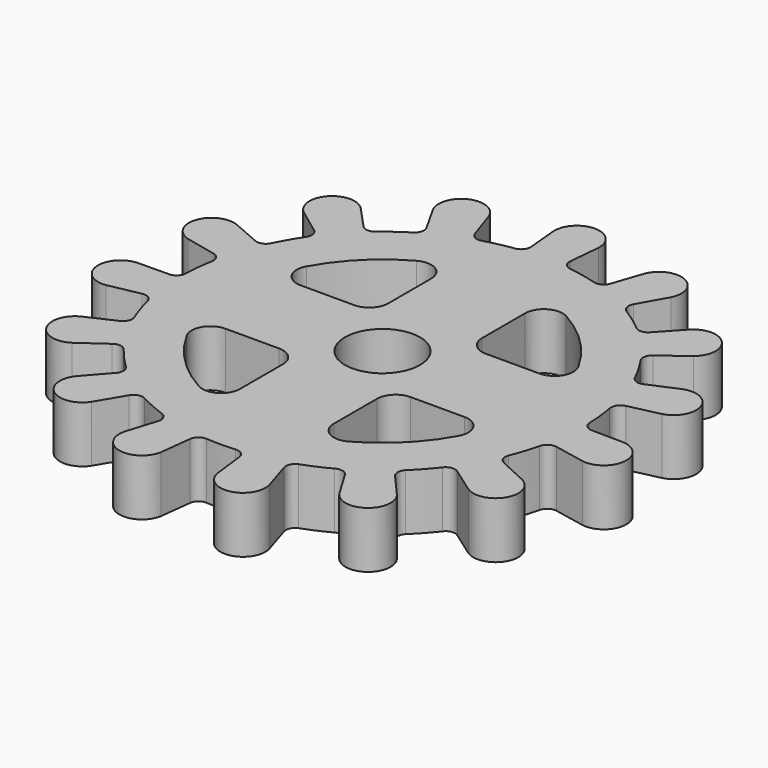
from build123d import *

# Parameters (mm, degrees)
F0_R     = 4
F1_DEPTH = 6


with BuildPart() as f1:
    # F0 (on Top) → F1 (new body)
    with BuildSketch(Plane.XY):
        with BuildLine():
            ThreePointArc((2.397418, 25.763696), (0, 28.275), (-2.397418, 25.763696))
            Line((-2.397418, 25.763696), (-2.087027, 22.428106))
            ThreePointArc((-2.087027, 22.428106), (-2.276181, 21.717887), (-2.899715, 21.32879))
            ThreePointArc((-2.899715, 21.32879), (-4.431874, 21.063811), (-5.940908, 20.688916))
            ThreePointArc((-5.940908, 20.688916), (-6.714959, 20.745067), (-7.215738, 21.337965))
            Line((-7.215738, 21.337965), (-8.288889, 24.511425))
            ThreePointArc((-8.288889, 24.511425), (-11.500479, 25.830498), (-12.669189, 22.56119))
            Line((-12.669189, 22.56119), (-11.028927, 19.640224))
            ThreePointArc((-11.028927, 19.640224), (-10.912855, 18.914471), (-11.324222, 18.305399))
            ThreePointArc((-11.324222, 18.305399), (-12.616142, 17.440143), (-13.842229, 16.48388))
            ThreePointArc((-13.842229, 16.48388), (-14.572199, 16.220342), (-15.270837, 16.558296))
            Line((-15.270837, 16.558296), (-17.541972, 19.020906))
            ThreePointArc((-17.541972, 19.020906), (-21.01242, 18.919668), (-20.750343, 15.457649))
            Line((-20.750343, 15.457649), (-18.063825, 13.456369))
            ThreePointArc((-18.063825, 13.456369), (-17.662597, 12.840571), (-17.790668, 12.116838))
            ThreePointArc((-17.790668, 12.116838), (-18.618965, 10.800916), (-19.350104, 9.428632))
            ThreePointArc((-19.350104, 9.428632), (-19.909774, 8.890972), (-20.68547, 8.915547))
            Line((-20.68547, 8.915547), (-23.761888, 10.241499))
            ThreePointArc((-23.761888, 10.241499), (-26.891123, 8.737456), (-25.243573, 5.68134))
            Line((-25.243573, 5.68134), (-21.975323, 4.945785))
            ThreePointArc((-21.975323, 4.945785), (-21.358316, 4.546419), (-21.180946, 3.833166))
            ThreePointArc((-21.180946, 3.833166), (-21.402399, 2.294112), (-21.51217, 0.743088))
            ThreePointArc((-21.51217, 0.743088), (-21.804767, 0.024273), (-22.523396, -0.268781))
            Line((-22.523396, -0.268781), (-25.873158, -0.308755))
            ThreePointArc((-25.873158, -0.308755), (-28.120107, -2.955542), (-25.371961, -5.077324))
            Line((-25.371961, -5.077324), (-22.087089, -4.41997))
            ThreePointArc((-22.087089, -4.41997), (-21.360988, -4.533849), (-20.908846, -5.113295))
            ThreePointArc((-20.908846, -5.113295), (-20.485164, -6.609364), (-19.954586, -8.070943))
            ThreePointArc((-19.954586, -8.070943), (-19.929519, -8.846624), (-20.466823, -9.406634))
            Line((-20.466823, -9.406634), (-23.510724, -10.805623))
            ThreePointArc((-23.510724, -10.805623), (-24.486868, -14.1375), (-21.113306, -14.958072))
            Line((-21.113306, -14.958072), (-18.379796, -13.021472))
            ThreePointArc((-18.379796, -13.021472), (-17.670151, -12.830174), (-17.021417, -13.175622))
            ThreePointArc((-17.021417, -13.175622), (-16.025858, -14.370021), (-14.946673, -15.489435))
            ThreePointArc((-14.946673, -15.489435), (-14.608275, -16.187858), (-14.871351, -16.917995))
            Line((-14.871351, -16.917995), (-17.083072, -19.434101))
            ThreePointArc((-17.083072, -19.434101), (-16.619628, -22.874956), (-13.203969, -22.252434))
            Line((-13.203969, -22.252434), (-11.494469, -19.371443))
            ThreePointArc((-11.494469, -19.371443), (-10.923984, -18.908045), (-10.19083, -18.959763))
            ThreePointArc((-10.19083, -18.959763), (-8.795535, -19.645971), (-7.354344, -20.229662))
            ThreePointArc((-7.354344, -20.229662), (-6.761128, -20.730065), (-6.704486, -21.504081))
            Line((-6.704486, -21.504081), (-7.701602, -24.702246))
            ThreePointArc((-7.701602, -24.702246), (-5.878703, -27.657123), (-3.011545, -25.699148))
            Line((-3.011545, -25.699148), (-2.621645, -22.371916))
            ThreePointArc((-2.621645, -22.371916), (-2.288962, -21.716543), (-1.598156, -21.465589))
            ThreePointArc((-1.598156, -21.465589), (-0.044385, -21.524954), (1.509617, -21.471998))
            ThreePointArc((1.509617, -21.471998), (2.255079, -21.687856), (2.621645, -22.371916))
            Line((2.621645, -22.371916), (3.011545, -25.699148))
            ThreePointArc((3.011545, -25.699148), (5.878703, -27.657123), (7.701602, -24.702246))
            Line((7.701602, -24.702246), (6.704486, -21.504081))
            ThreePointArc((6.704486, -21.504081), (6.741843, -20.770054), (7.270854, -20.25982))
            ThreePointArc((7.270854, -20.25982), (8.71444, -19.682077), (10.112552, -19.001629))
            ThreePointArc((10.112552, -19.001629), (10.881363, -18.895619), (11.494469, -19.371443))
            Line((11.494469, -19.371443), (13.203969, -22.252434))
            ThreePointArc((13.203969, -22.252434), (16.619628, -22.874956), (17.083072, -19.434101))
            Line((17.083072, -19.434101), (14.871351, -16.917995))
            ThreePointArc((14.871351, -16.917995), (14.606923, -16.232234), (14.882667, -15.550944))
            ThreePointArc((14.882667, -15.550944), (15.966459, -14.43599), (16.966935, -13.245707))
            ThreePointArc((16.966935, -13.245707), (17.62616, -12.836158), (18.379796, -13.021472))
            Line((18.379796, -13.021472), (21.113306, -14.958072))
            ThreePointArc((21.113306, -14.958072), (24.486868, -14.1375), (23.510724, -10.805623))
            Line((23.510724, -10.805623), (20.466823, -9.406634))
            ThreePointArc((20.466823, -9.406634), (19.946332, -8.887713), (19.921131, -8.153168))
            ThreePointArc((19.921131, -8.153168), (20.457732, -6.693789), (20.887581, -5.199481))
            ThreePointArc((20.887581, -5.199481), (21.323234, -4.557208), (22.087089, -4.41997))
            Line((22.087089, -4.41997), (25.371961, -5.077324))
            ThreePointArc((25.371961, -5.077324), (28.120107, -2.955542), (25.873158, -0.308755))
            Line((25.873158, -0.308755), (22.523396, -0.268781))
            ThreePointArc((22.523396, -0.268781), (21.83684, -0.006426), (21.515051, 0.654364))
            ThreePointArc((21.515051, 0.654364), (21.411678, 2.205828), (21.196574, 3.745782))
            ThreePointArc((21.196574, 3.745782), (21.333327, 4.509724), (21.975323, 4.945785))
            Line((21.975323, 4.945785), (25.243573, 5.68134))
            ThreePointArc((25.243573, 5.68134), (26.891123, 8.737456), (23.761888, 10.241499))
            Line((23.761888, 10.241499), (20.68547, 8.915547))
            ThreePointArc((20.68547, 8.915547), (19.951559, 8.875973), (19.388824, 9.348751))
            ThreePointArc((19.388824, 9.348751), (18.66335, 10.724038), (17.840487, 12.043366))
            ThreePointArc((17.840487, 12.043366), (17.654695, 12.796884), (18.063825, 13.456369))
            Line((18.063825, 13.456369), (20.750343, 15.457649))
            ThreePointArc((20.750343, 15.457649), (21.01242, 18.919668), (17.541972, 19.020906))
            Line((17.541972, 19.020906), (15.270837, 16.558296))
            ThreePointArc((15.270837, 16.558296), (14.616473, 16.223635), (13.910092, 16.426654))
            ThreePointArc((13.910092, 16.426654), (12.687959, 17.387965), (11.399618, 18.258542))
            ThreePointArc((11.399618, 18.258542), (10.923405, 18.871346), (11.028927, 19.640224))
            Line((11.028927, 19.640224), (12.669189, 22.56119))
            ThreePointArc((12.669189, 22.56119), (11.500479, 25.830498), (8.288889, 24.511425))
            Line((8.288889, 24.511425), (7.215738, 21.337965))
            ThreePointArc((7.215738, 21.337965), (6.754066, 20.766083), (6.026179, 20.664239))
            ThreePointArc((6.026179, 20.664239), (4.518705, 21.045354), (2.987651, 21.31665))
            ThreePointArc((2.987651, 21.31665), (2.303359, 21.682781), (2.087027, 22.428106))
            Line((2.087027, 22.428106), (2.397418, 25.763696))
        make_face()
        with BuildLine():
            ThreePointArc((-14.479386, -7.963855), (-14.44855, -5.982088), (-12.726964, -5))
            Line((-12.726964, -5), (-7, -5))
            ThreePointArc((-7, -5), (-5.585786, -5.585786), (-5, -7))
            Line((-5, -7), (-5, -12.726964))
            ThreePointArc((-5, -12.726964), (-5.982088, -14.44855), (-7.963855, -14.479386))
            ThreePointArc((-7.963855, -14.479386), (-11.68494, -11.68494), (-14.479386, -7.963855))
        make_face(mode=Mode.SUBTRACT)
        with BuildLine():
            ThreePointArc((7.963855, -14.479386), (5.982088, -14.44855), (5, -12.726964))
            Line((5, -12.726964), (5, -7))
            ThreePointArc((5, -7), (5.585786, -5.585786), (7, -5))
            Line((7, -5), (12.726964, -5))
            ThreePointArc((12.726964, -5), (14.44855, -5.982088), (14.479386, -7.963855))
            ThreePointArc((14.479386, -7.963855), (11.68494, -11.68494), (7.963855, -14.479386))
        make_face(mode=Mode.SUBTRACT)
        Circle(F0_R, mode=Mode.SUBTRACT)
        with BuildLine():
            ThreePointArc((-7.963855, 14.479386), (-5.982088, 14.44855), (-5, 12.726964))
            Line((-5, 12.726964), (-5, 7))
            ThreePointArc((-5, 7), (-5.585786, 5.585786), (-7, 5))
            Line((-7, 5), (-12.726964, 5))
            ThreePointArc((-12.726964, 5), (-14.44855, 5.982088), (-14.479386, 7.963855))
            ThreePointArc((-14.479386, 7.963855), (-11.68494, 11.68494), (-7.963855, 14.479386))
        make_face(mode=Mode.SUBTRACT)
        with BuildLine():
            ThreePointArc((14.479386, 7.963855), (14.44855, 5.982088), (12.726964, 5))
            Line((12.726964, 5), (7, 5))
            ThreePointArc((7, 5), (5.585786, 5.585786), (5, 7))
            Line((5, 7), (5, 12.726964))
            ThreePointArc((5, 12.726964), (5.982088, 14.44855), (7.963855, 14.479386))
            ThreePointArc((7.963855, 14.479386), (11.68494, 11.68494), (14.479386, 7.963855))
        make_face(mode=Mode.SUBTRACT)
    extrude(amount=F1_DEPTH)


solid = f1.part
